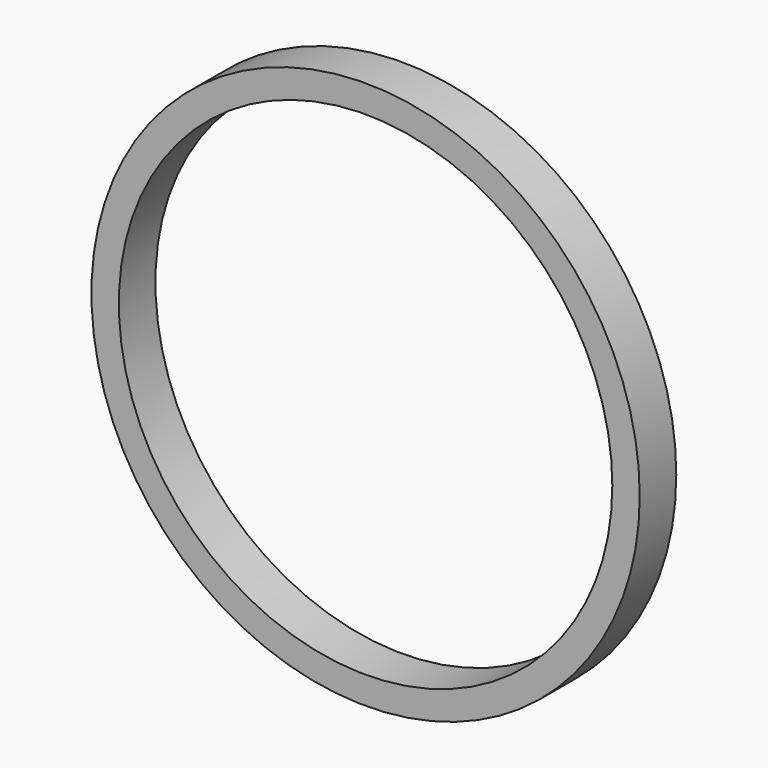
from build123d import *

# Parameters (mm, degrees)
F2_R     = 30
F2_R_2   = 27
F0_DEPTH = 5


with BuildPart() as f0:
    # F2 (on Front) → F0 (new body)
    with BuildSketch(Plane.XZ):
        Circle(F2_R)
        Circle(F2_R_2, mode=Mode.SUBTRACT)
        Circle(F2_R)
        Circle(F2_R_2, mode=Mode.SUBTRACT)
    extrude(amount=-F0_DEPTH)


solid = f0.part
